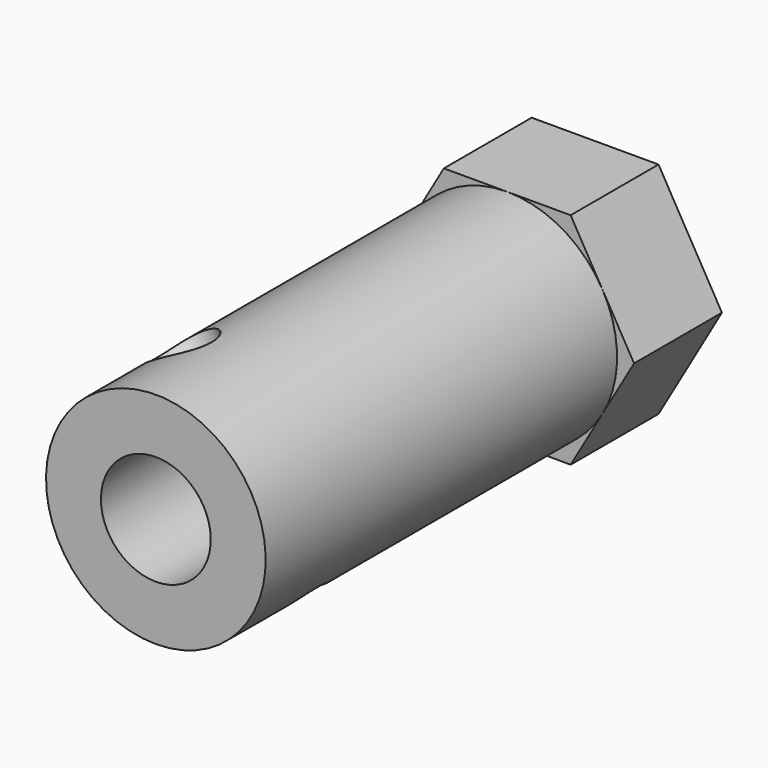
from build123d import *

# Parameters (mm, degrees)
PAD003_DEPTH            = 6
SKETCH008_R             = 6
PAD004_DEPTH            = 24
SKETCH009_R             = 3
POCKET001_DEPTH         = 24.5
SKETCH010_R             = 1.75
POCKET002_DEPTH         = 6
SKETCH011_R             = 1.75
POCKET003_DEPTH         = 7
BODY001_ROLL_ANGLE      = 90.00003
BODY001_PITCH_ANGLE     = -30.000033
BODY001_PLACEMENT_ANGLE = -8e-06


with BuildPart() as part:
    # Sketch007 → Pad003 (new body)
    with BuildSketch(Plane.XY):
        Polygon((6, 3.464102), (0, 6.928203), (-6, 3.464102), (-6, -3.464102), (0, -6.928203), (6, -3.464102), align=None)
    extrude(amount=PAD003_DEPTH)

    # Sketch008 (on Face8 of Pad003) → Pad004 (join)
    with BuildSketch(Plane.XY.offset(6)):
        Circle(SKETCH008_R)
    extrude(amount=PAD004_DEPTH)

    # Sketch009 (on Face15 of Pad004) → Pocket001 (cut)
    with BuildSketch(Plane.XY.offset(30)):
        Circle(SKETCH009_R)
    extrude(amount=-POCKET001_DEPTH, mode=Mode.SUBTRACT)

    # Sketch010 (on Face4 of Pocket001) → Pocket002 (cut)
    with BuildSketch(Plane(origin=(0, 0, 0), x_dir=(1, 0, 0), z_dir=(0, 0, -1))):
        Circle(SKETCH010_R)
    extrude(amount=-POCKET002_DEPTH, mode=Mode.SUBTRACT)

    # Sketch011 → Pocket003 (cut, symmetric)
    with BuildSketch(Plane.XZ):
        with Locations((0, 24.5)):
            Circle(SKETCH011_R)
    extrude(amount=POCKET003_DEPTH, both=True, mode=Mode.SUBTRACT)


with BuildPart() as part_1:
    # Body001 roll: moved
    add(part.part.rotate(Axis((0, 0, 0), (1, 0, 0)), BODY001_ROLL_ANGLE))


with BuildPart() as part_2:
    # Body001 pitch: moved
    add(part_1.part.rotate(Axis((0, 0, 0), (0, 1, 0)), BODY001_PITCH_ANGLE))


with BuildPart() as part_3:
    # Body001 placement: moved
    add(part_2.part.moved(Location((0, 10.3, 0))).rotate(Axis((0, 10.3, 0), (0, 0, 1)), BODY001_PLACEMENT_ANGLE))


solid = part_3.part
